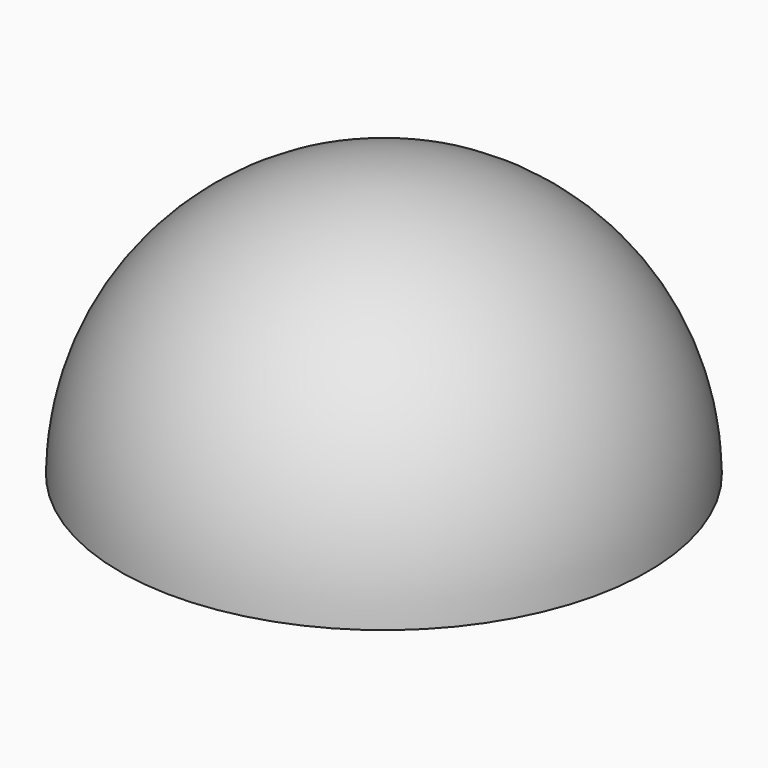
from build123d import *

# Parameters (mm, degrees)
F4_DEPTH = 7.2
F5_R     = 2


with BuildPart() as f2:
    # F1 (on Front) → F2 (revolve)
    with BuildSketch(Plane.XZ):
        with BuildLine():
            ThreePointArc((0, 9.9490633183), (-7.0530819666, 7.0381248849), (-10, 0))
            Line((-10, 0), (0, 0))
            Line((0, 0), (0, 9.9490633183))
        make_face()
    revolve(axis=Axis((0, 0, 4.9745316591), (0, 0, 1)))

    # F3 (on face) → F4 (cut)
    with BuildSketch(Plane(origin=(0, 0, 0), x_dir=(1, 0, 0), z_dir=(0, 0, -1))):
        Polygon((2.925, 5.0662486121), (-2.925, 5.0662486121), (-5.85, 0), (-2.925, -5.0662486121), (2.925, -5.0662486121), (5.85, 0), align=None)
    extrude(amount=-F4_DEPTH, mode=Mode.SUBTRACT)

    # F5
    f5_edges = [f2.edges().sort_by_distance(p)[0] for p in [
        (0, -5.066249, 7.2),
        (-4.3875, -2.533124, 7.2),
        (4.3875, -2.533124, 7.2),
        (4.3875, 2.533124, 7.2),
        (-4.3875, 2.533124, 7.2),
        (0, 5.066249, 7.2),
    ]]
    fillet(f5_edges, radius=F5_R)


solid = f2.part
